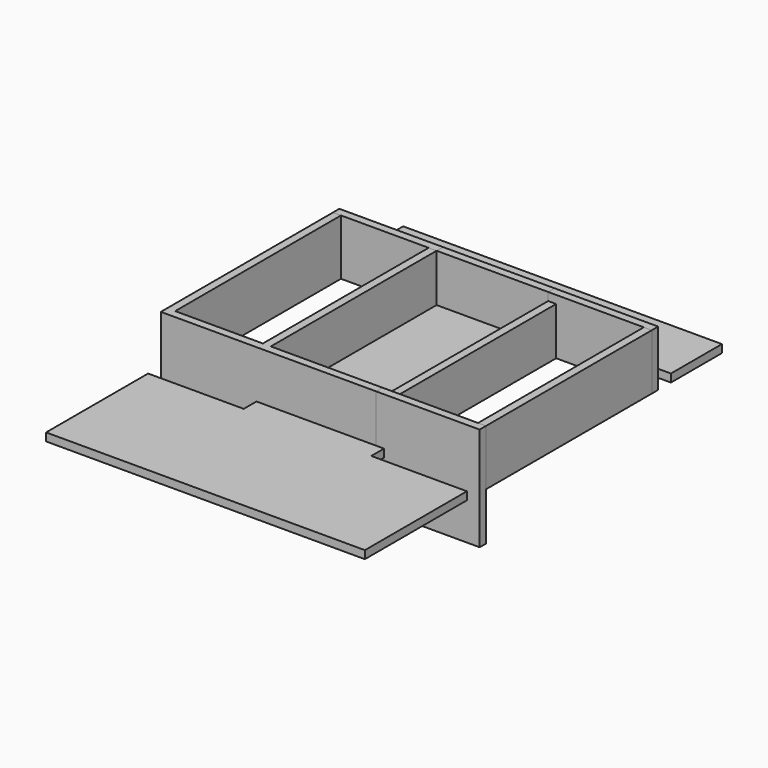
from build123d import *

# Parameters (mm, degrees)
F1_DEPTH  = 3.175
F0_W      = 44.45
F0_H      = 82.55
F0_W_2    = 34.925
F0_H_2    = 3.175
F0_W_3    = 3.175
F2_DEPTH  = 22.225
F3_DEPTH  = 22.225
F4_DEPTH  = 19.05
F5_DEPTH  = 22.225
F6_DEPTH  = 22.225
F7_DEPTH  = 22.225
F8_DEPTH  = 22.225
F9_DEPTH  = 22.225
F10_DEPTH = 22.225
F11_DEPTH = 22.225
F12_DEPTH = 19.05
F13_DEPTH = 19.05


with BuildPart() as f1:
    # F0 (on Top) → F1 (new body)
    with BuildSketch(Plane.XY):
        Polygon((0, 50.8), (0, 0), (127, 0), (127, 50.8), (88.9, 50.8), (88.9, 57.15), (85.725, 57.15), (41.275, 57.15), (38.1, 57.15), (38.1, 50.8), align=None)
    extrude(amount=F1_DEPTH)



with BuildPart() as f1b:
    # F0 (on Top) → F1, piece 2 (new body)
    with BuildSketch(Plane.XY):
        Polygon((0, 177.8), (0, 152.4), (38.1, 152.4), (38.1, 146.05), (41.275, 146.05), (85.725, 146.05), (88.9, 146.05), (88.9, 152.4), (127, 152.4), (127, 177.8), align=None)
    extrude(amount=F1_DEPTH)


with BuildPart() as f1c:
    # F0 (on Top) → F1, piece 3 (new body)
    with BuildSketch(Plane.XY):
        with Locations((63.5, 101.6)):
            Rectangle(F0_W, F0_H)
    extrude(amount=F1_DEPTH)


with BuildPart() as f2:
    # F0 (on Top) → F2 (new body)
    with BuildSketch(Plane.XY):
        with Locations((106.3625, 58.7375)):
            Rectangle(F0_W_2, F0_H_2)
        with Locations((125.4125, 58.7375)):
            Rectangle(F0_W_3, F0_H_2)
        with Locations((87.3125, 58.7375)):
            Rectangle(F0_W_3, F0_H_2)
    extrude(amount=F2_DEPTH)

    # F12 (add): a face of the model
    f12_faces = [f2.faces().sort_by_distance(p)[0] for p in [
        (106.3625, 58.7375, 0),
    ]]
    extrude(f12_faces, amount=F12_DEPTH)


with BuildPart() as f3:
    # F0 (on Top) → F3 (new body)
    with BuildSketch(Plane.XY):
        with Locations((125.4125, 101.6)):
            Rectangle(F0_W_3, F0_H)
    extrude(amount=F3_DEPTH)


with BuildPart() as f4:
    # F0 (on Top) → F4 (new body)
    with BuildSketch(Plane.XY):
        with Locations((87.3125, 101.6)):
            Rectangle(F0_W_3, F0_H)
    extrude(amount=F4_DEPTH)


with BuildPart() as f5:
    # F0 (on Top) → F5 (new body)
    with BuildSketch(Plane.XY):
        with Locations((125.4125, 144.4625)):
            Rectangle(F0_W_3, F0_H_2)
        with Locations((106.3625, 144.4625)):
            Rectangle(F0_W_2, F0_H_2)
        with Locations((87.3125, 144.4625)):
            Rectangle(F0_W_3, F0_H_2)
    extrude(amount=F5_DEPTH)


with BuildPart() as f6:
    # F0 (on Top) → F6 (new body)
    with BuildSketch(Plane.XY):
        with Locations((1.5875, 144.4625)):
            Rectangle(F0_W_3, F0_H_2)
        with Locations((20.6375, 144.4625)):
            Rectangle(F0_W_2, F0_H_2)
        with Locations((39.6875, 144.4625)):
            Rectangle(F0_W_3, F0_H_2)
    extrude(amount=F6_DEPTH)


with BuildPart() as f7:
    # F0 (on Top) → F7 (new body)
    with BuildSketch(Plane.XY):
        with Locations((63.5, 144.4625)):
            Rectangle(F0_W, F0_H_2)
    extrude(amount=F7_DEPTH)


with BuildPart() as f8:
    # F0 (on Top) → F8 (new body)
    with BuildSketch(Plane.XY):
        with Locations((1.5875, 101.6)):
            Rectangle(F0_W_3, F0_H)
    extrude(amount=F8_DEPTH)


with BuildPart() as f9:
    # F0 (on Top) → F9 (new body)
    with BuildSketch(Plane.XY):
        with Locations((39.6875, 101.6)):
            Rectangle(F0_W_3, F0_H)
    extrude(amount=F9_DEPTH)


with BuildPart() as f10:
    # F0 (on Top) → F10 (new body)
    with BuildSketch(Plane.XY):
        with Locations((1.5875, 58.7375)):
            Rectangle(F0_W_3, F0_H_2)
        with Locations((20.6375, 58.7375)):
            Rectangle(F0_W_2, F0_H_2)
        with Locations((39.6875, 58.7375)):
            Rectangle(F0_W_3, F0_H_2)
    extrude(amount=F10_DEPTH)


with BuildPart() as f11:
    # F0 (on Top) → F11 (new body)
    with BuildSketch(Plane.XY):
        with Locations((63.5, 58.7375)):
            Rectangle(F0_W, F0_H_2)
    extrude(amount=F11_DEPTH)


with BuildPart() as f1_1:
    add(f1.part)
    # F13 (add): a face of the model
    f13_faces = [f10.part.faces().sort_by_distance(p)[0] for p in [
        (20.6375, 58.7375, 0),
    ]]

    add(f1c.part)  # F13 merges F1c

    add(f8.part)  # F13 merges F8

    add(f9.part)  # F13 merges F9

    add(f10.part)  # F13 merges F10

    add(f11.part)  # F13 merges F11
    extrude(f13_faces, amount=F13_DEPTH)


solid = Compound([f1b.part, f2.part, f3.part, f4.part, f5.part, f6.part, f7.part, f1_1.part])
